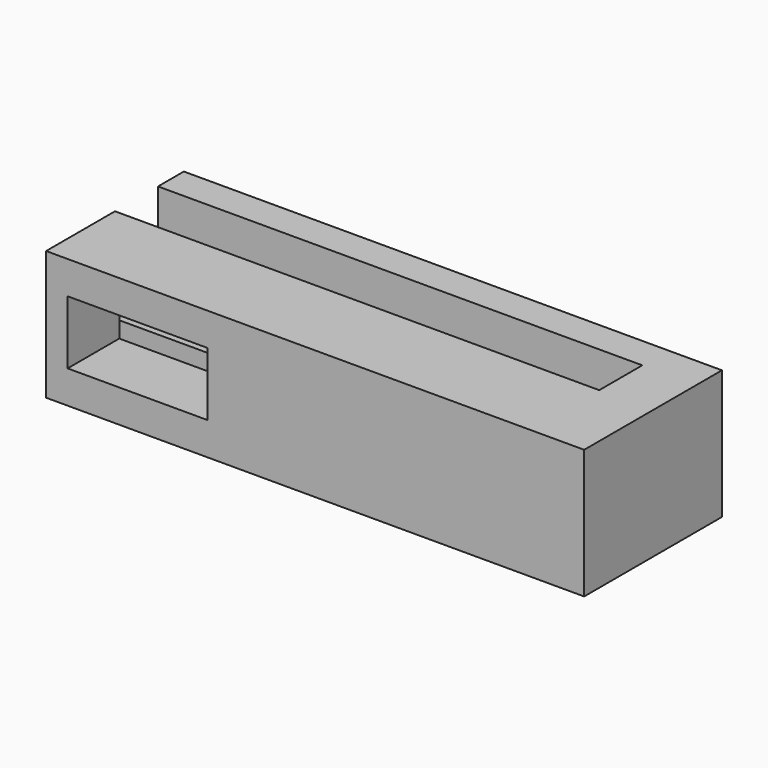
from build123d import *

# Parameters (mm, degrees)
F1_DEPTH = 12
F2_W     = 13
F2_H     = 5.9
F3_DEPTH = 6
F4_W     = 13
F4_H     = 2.9
F5_DEPTH = 2
F6_W     = 2
F6_H     = 2.9
F7_DEPTH = 2


with BuildPart() as f1:
    # F0 (on Top) → F1 (new body)
    with BuildSketch(Plane.XY):
        Polygon((0, 3), (0, 0), (45, 0), (45, -5), (0, -5), (0, -13), (50, -13), (50, 3), align=None)
    extrude(amount=F1_DEPTH)

    # F2 (on face) → F3 (cut)
    with BuildSketch(Plane.XZ.offset(13)):
        with Locations((8.5, 6)):
            Rectangle(F2_W, F2_H)
    extrude(amount=-F3_DEPTH, mode=Mode.SUBTRACT)

    # F4 (on face) → F5 (cut, through all)
    with BuildSketch(Plane.XZ.offset(7)):
        with Locations((8.5, 6)):
            Rectangle(F4_W, F4_H)
    extrude(amount=-F5_DEPTH, mode=Mode.SUBTRACT)

    # F6 (on face) → F7 (cut, through all)
    with BuildSketch(Plane(origin=(0, 0, 0), x_dir=(0, -1, 0), z_dir=(-1, 0, 0))):
        with Locations((6, 6)):
            Rectangle(F6_W, F6_H)
    extrude(amount=-F7_DEPTH, mode=Mode.SUBTRACT)


solid = f1.part
